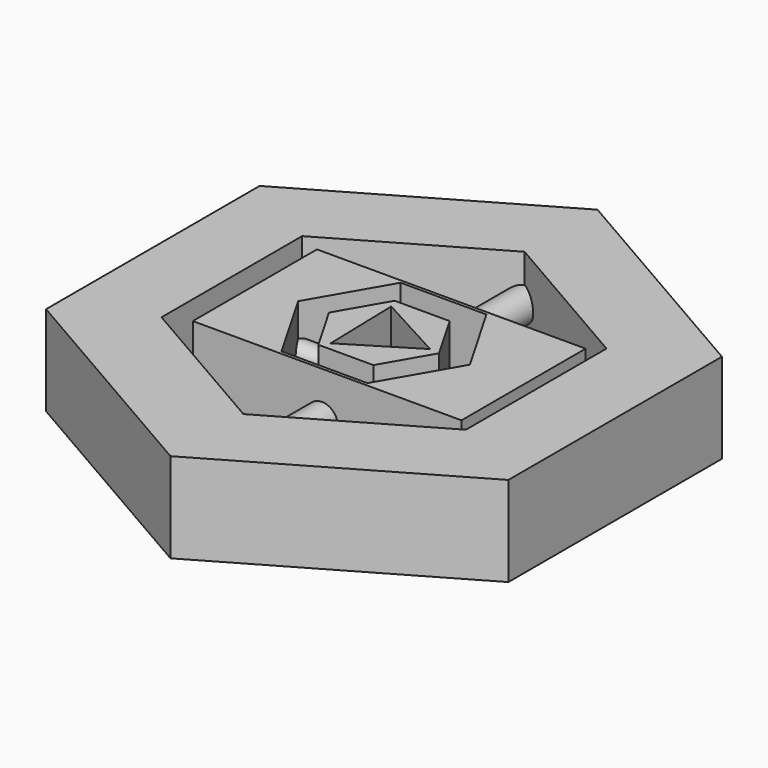
from build123d import *

# Parameters (mm, degrees)
F1_DEPTH  = 25
F3_DEPTH  = 35.3
F4_W      = 74.686735
F4_H      = 43.148034
F5_DEPTH  = 25
F6_R      = 4.413287
F7_DEPTH  = 33.1
F10_DEPTH = 33.1
F11_R     = 3.318896
F12_DEPTH = 96
F14_DEPTH = 25
F16_DEPTH = 25


with BuildPart() as f1:
    # F0 (on Top) → F1 (new body)
    with BuildSketch(Plane.XY):
        Polygon((64.261695, 37.101507), (0, 74.203014), (-64.261695, 37.101507), (-64.261695, -37.101507), (0, -74.203014), (64.261695, -37.101507), align=None)
    extrude(amount=F1_DEPTH)

    # F2 (on face) → F3 (cut)
    with BuildSketch(Plane.XY.offset(25)):
        Polygon((42.3105, 24.427978), (0, 48.855957), (-42.3105, 24.427978), (-42.3105, -24.427978), (0, -48.855957), (42.3105, -24.427978), align=None)
    extrude(amount=-F3_DEPTH, mode=Mode.SUBTRACT)


with BuildPart() as f5:
    # F4 (on Top) → F5 (new body)
    with BuildSketch(Plane.XY):
        with Locations((1.451168, 0)):
            Rectangle(F4_W, F4_H)
    extrude(amount=F5_DEPTH)

    # F9 (on face) → F10 (cut)
    with BuildSketch(Plane.XY.offset(25)):
        Polygon((-11.921194, 20.684916), (-23.87426, 0.018401), (-11.953066, -20.666515), (11.921194, -20.684916), (23.87426, -0.018401), (11.953066, 20.666515), align=None)
    extrude(amount=-F10_DEPTH, mode=Mode.SUBTRACT)


with BuildPart() as f7:
    # F6 (on face) → F7 (new body)
    with BuildSketch(Plane.XZ.offset(21.574017)):
        with Locations((0, 12.480038)):
            Circle(F6_R)
    extrude(amount=F7_DEPTH)


with BuildPart() as f8_1:
    # F8: instance of F7
    add(f7.part.mirror(Plane.XZ))


with BuildPart() as f12:
    # F11 (on face) → F12 (new body)
    with BuildSketch(Plane.YZ.offset(-42.3105)):
        with Locations((0.018401, 12.5)):
            Circle(F11_R)
    extrude(amount=F12_DEPTH)

    # F13 (on Top) → F14 (join)
    with BuildSketch(Plane.XY):
        Polygon((7.652197, 13.253993), (-7.652197, 13.253993), (-15.304393, 0), (-7.652197, -13.253993), (7.652197, -13.253993), (15.304393, 0), align=None)
    extrude(amount=F14_DEPTH)

    # F15 (on face) → F16 (cut)
    with BuildSketch(Plane.XY.offset(25)):
        Polygon((12.550362, 0.319878), (-6.552203, 10.708993), (-5.998158, -11.028871), align=None)
    extrude(amount=-F16_DEPTH, mode=Mode.SUBTRACT)


solid = Compound([f1.part, f5.part, f7.part, f8_1.part, f12.part])
